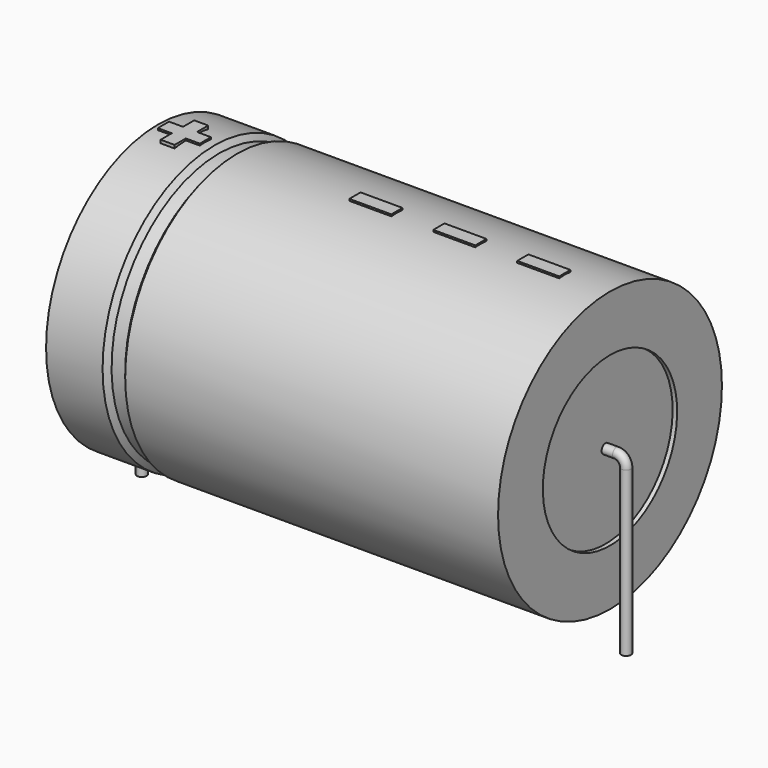
from build123d import *

# Parameters (mm, degrees)
SKETCH_R    = 0.45
SKETCH004_W = 3.9
SKETCH004_H = 1.3
PAD_DEPTH   = 13.13


with BuildPart() as sweep_body:
    # Sweep: sweep along a path in Sketch001
    with BuildLine(Plane.XZ) as sweep_path:
        Line((0, -3), (0, 12.2))
        ThreePointArc((0, 12.2), (0.263608, 12.8364), (0.900012, 13.1))
        Line((0.900012, 13.1), (44.1, 13.1))
        ThreePointArc((44.1, 13.1), (44.736396, 12.836396), (45, 12.2))
        Line((45, 12.2), (45, -3))
    # Sketch → Sweep (sweep)
    with BuildSketch(Plane.XY.offset(-2)):
        Circle(SKETCH_R)
    sweep(path=sweep_path.line)


with BuildPart() as revolution:
    # Sketch002 → Revolution (revolve)
    with BuildSketch(Plane.XZ):
        Polygon((1.5, 26.1), (1.5, 20.9), (43.5, 20.9), (43.5, 26.1), (8.85, 26.1), (8.43, 25.58), (7.17, 25.58), (6.75, 26.1), align=None)
    revolve(axis=Axis((6.97588, 0, 13.1), (1, 0, 0)))


with BuildPart() as revolution001:
    # Sketch003 → Revolution001 (revolve)
    with BuildSketch(Plane.XZ):
        Polygon((1.92, 25.58), (4.02, 25.58), (4.02, 14.4), (40.98, 14.4), (40.98, 25.58), (43.08, 25.58), (43.08, 13.1), (1.92, 13.1), align=None)
    revolve(axis=Axis((6.97588, 0, 13.1), (1, 0, 0)))


with BuildPart() as pad:
    # Sketch004 → Pad (new body)
    with BuildSketch(Plane.XY.offset(13.1)):
        with Locations((37.35, 0)):
            Rectangle(SKETCH004_W, SKETCH004_H)
        with Locations((29.55, 0)):
            Rectangle(SKETCH004_W, SKETCH004_H)
        with Locations((21.75, 0)):
            Rectangle(SKETCH004_W, SKETCH004_H)
        Polygon((3.304, 0.65), (2.004, 0.65), (2.004, -0.65), (3.304, -0.65), (3.304, -1.95), (4.604, -1.95), (4.604, -0.65), (5.904, -0.65), (5.904, 0.65), (4.604, 0.65), (4.604, 1.95), (3.304, 1.95), align=None)
    extrude(amount=PAD_DEPTH)


solid = Compound([sweep_body.part, revolution.part, revolution001.part, pad.part])
